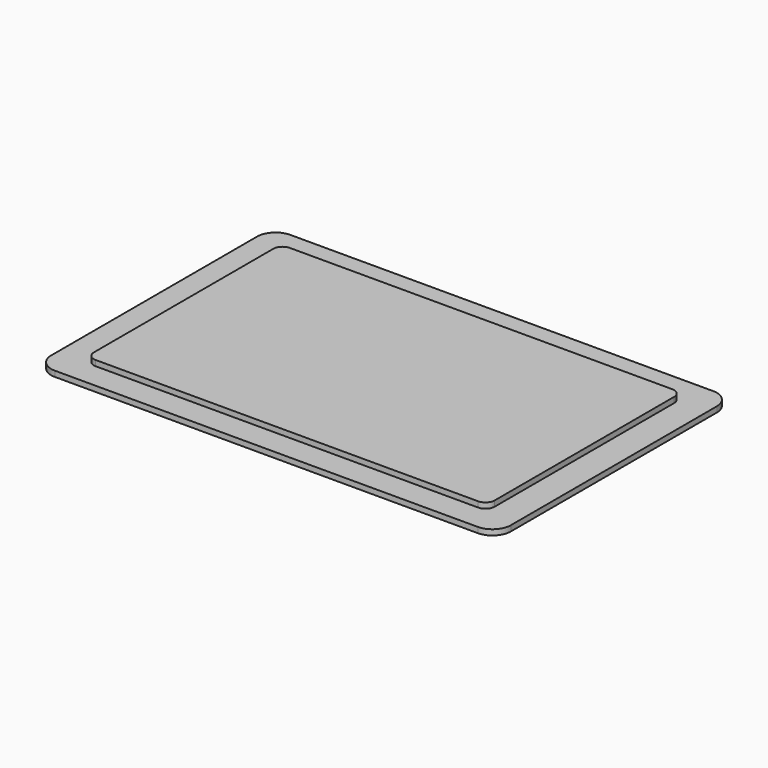
from build123d import *

# Parameters (mm, degrees)
F0_W     = 25
F0_H     = 16
F0_W_2   = 21.8
F0_H_2   = 13.2
F1_DEPTH = 0.3
F2_DEPTH = 0.6
F3_R     = 1
F4_R     = 0.5


with BuildPart() as f1:
    # F0 (on Top) → F1 (new body)
    with BuildSketch(Plane.XY):
        Rectangle(F0_W, F0_H)
        Rectangle(F0_W_2, F0_H_2, mode=Mode.SUBTRACT)
        Rectangle(F0_W_2, F0_H_2)
    extrude(amount=F1_DEPTH)

    # F0 (on Top) → F2 (join)
    with BuildSketch(Plane.XY):
        Rectangle(F0_W_2, F0_H_2)
    extrude(amount=F2_DEPTH)

    # F3
    f3_edges = [f1.edges().sort_by_distance(p)[0] for p in [
        (-12.5, 8, 0.15),
        (-12.5, -8, 0.15),
        (12.5, -8, 0.15),
        (12.5, 8, 0.15),
    ]]
    fillet(f3_edges, radius=F3_R)

    # F4
    f4_edges = [f1.edges().sort_by_distance(p)[0] for p in [
        (-10.9, -6.6, 0.45),
        (10.9, -6.6, 0.45),
        (-10.9, 6.6, 0.45),
        (10.9, 6.6, 0.45),
    ]]
    fillet(f4_edges, radius=F4_R)


solid = f1.part
